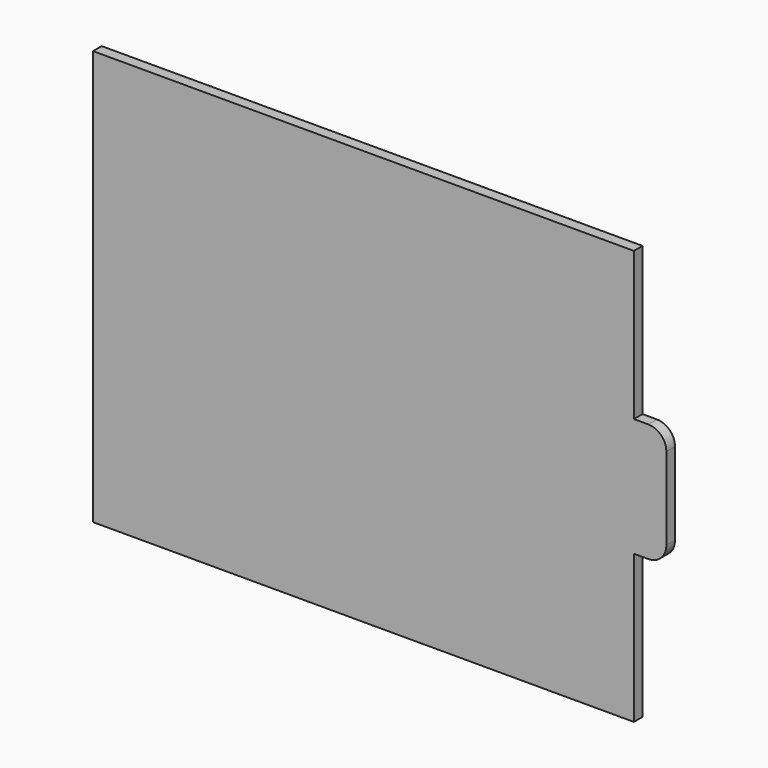
from build123d import *

# Parameters (mm, degrees)
F1_DEPTH = 6


with BuildPart() as f1:
    # F0 (on Front) → F1 (new body)
    with BuildSketch(Plane.XZ):
        with BuildLine():
            Line((-150, -115), (150, -115))
            Line((150, -115), (150, -32.871023))
            Line((150, -32.871023), (158, -32.871023))
            ThreePointArc((158, -32.871023), (165.071068, -29.942091), (168, -22.871023))
            Line((168, -22.871023), (168, 22.871023))
            ThreePointArc((168, 22.871023), (165.071068, 29.942091), (158, 32.871023))
            Line((158, 32.871023), (150, 32.871023))
            Line((150, 32.871023), (150, 115))
            Line((150, 115), (-150, 115))
            Line((-150, 115), (-150, -115))
        make_face()
    extrude(amount=F1_DEPTH)


solid = f1.part
